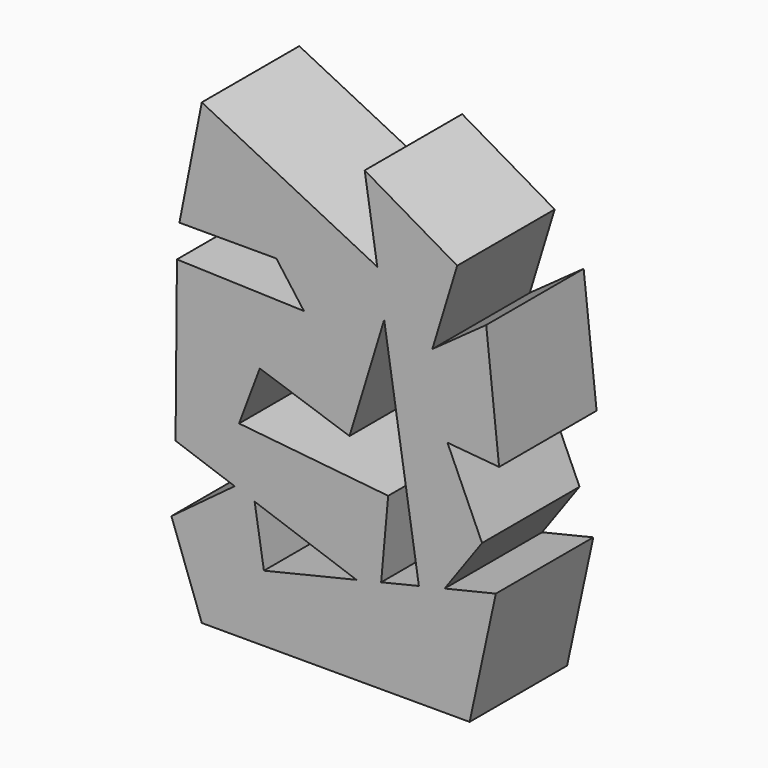
from build123d import *

# Parameters (mm, degrees)
F1_DEPTH = 25


with BuildPart() as f1:
    # F0 (on Front) → F1 (new body)
    with BuildSketch(Plane.XZ):
        Polygon((9.3355238921, 21.5350252004), (5.696185278, 23.3546947243), (7.112640961, 14.2489086105), align=None)
        Polygon((3.1160083599, 39.9415455759), (5.696185278, 23.3546947243), (9.3355238921, 21.5350252004), (7.112640961, 14.2489086105), (14.2324656675, -31.5213909643), (19.5127929437, -30.2641700858), (27.1942447871, -19.5458643138), (20.0996515075, -3.7194623682), (30.695501842, -4.6683449843), (28.0440635979, 20.1124101877), (16.9964041561, 12.1807558462), (22.0953244716, 28.8938842714), align=None)
        Polygon((5.696185278, 23.3546947243), (-30.3102526814, 41.3579158485), (-34.9019161013, 18.1294977665), (-15.0134898722, 18.1294977665), (-9.3480218202, 10.4811154306), (-35.4091748595, 11.3309361041), (-35.6924459338, -21.5287767351), (-23.5665350946, -25.7892328121), (-20.1124101877, -23.2284162194), (-19.4695026466, -27.2287310092), (1.4262612845, -34.5704874846), (6.4912185709, -33.3645451792), (7.9316552728, -17.279677093), (-22.6618722081, -14.1636701301), (-18.4127707034, -2.832734026), (0, -9.0647488832), (7.112640961, 14.2489086105), align=None)
        Polygon((5.696185278, 23.3546947243), (-30.3102526814, 41.3579158485), (-34.9019161013, 18.1294977665), (-15.0134898722, 18.1294977665), (-9.3480218202, 10.4811154306), (-35.4091748595, 11.3309361041), (-35.6924459338, -21.5287767351), (-23.5665350946, -25.7892328121), (-20.1124101877, -23.2284162194), (-19.4695026466, -27.2287310092), (1.4262612845, -34.5704874846), (6.4912185709, -33.3645451792), (7.9316552728, -17.279677093), (-22.6618722081, -14.1636701301), (-18.4127707034, -2.832734026), (0, -9.0647488832), (7.112640961, 14.2489086105), align=None)
        Polygon((-23.5665350946, -25.7892328121), (-19.4695026466, -27.2287310092), (-20.1124101877, -23.2284162194), align=None)
        Polygon((19.5127929437, -30.2641700858), (14.2324656675, -31.5213909643), (15.0134908035, -36.5422666073), align=None)
        Polygon((6.2320139259, -36.258995533), (6.4912185709, -33.3645451792), (1.4262612845, -34.5704874846), align=None)
        Polygon((15.0134908035, -36.5422666073), (14.2324656675, -31.5213909643), (6.4912185709, -33.3645451792), (6.2320139259, -36.258995533), (1.4262612845, -34.5704874846), (-17.56295003, -39.0917286277), (-19.4695026466, -27.2287310092), (-23.5665350946, -25.7892328121), (-36.5422666073, -35.4091711342), (-30.3102526814, -52.6888519526), (24.6447846293, -52.6888519526), (30.0269778818, -27.7607925236), (19.5127929437, -30.2641700858), align=None)
    extrude(amount=F1_DEPTH)


solid = f1.part
